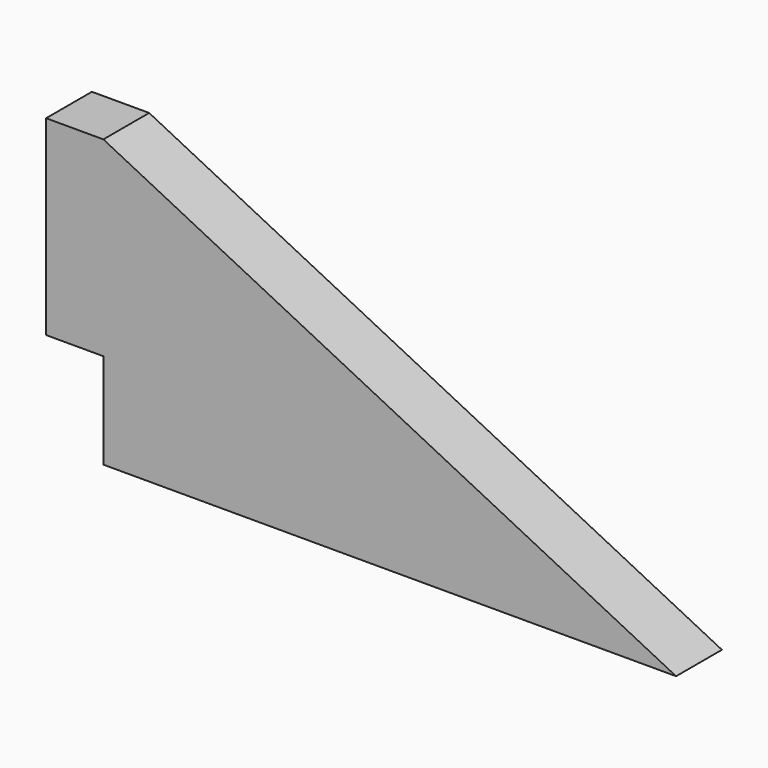
from build123d import *

# Parameters (mm, degrees)
F0_W     = 3
F0_H     = 10
F1_DEPTH = 3


with BuildPart() as f1:
    # F0 (on Front) → F1 (new body)
    with BuildSketch(Plane.XZ):
        Polygon((-16.875, -16.534092), (-46.875, -1.534092), (-46.875, -11.534092), (-46.875, -16.534092), align=None)
        with Locations((-48.375, -6.534092)):
            Rectangle(F0_W, F0_H)
    extrude(amount=F1_DEPTH)


solid = f1.part
